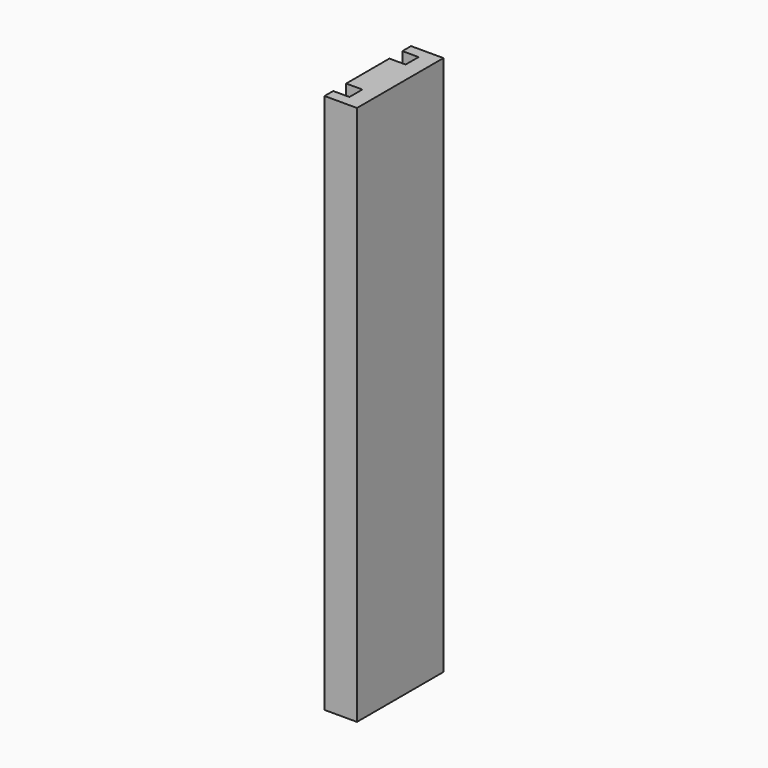
from build123d import *

# Parameters (mm, degrees)
EXTRUDE_DEPTH = 100


with BuildPart() as part:
    # Sketch → Extrude (new body)
    with BuildSketch(Plane.XY):
        Polygon((0, 0), (0, 10), (3, 10), (3, 13), (0, 13), (0, 15), (6, 15), (6, -5), (0, -5), (0, -3), (3, -3), (3, 0), align=None)
    extrude(amount=EXTRUDE_DEPTH)


solid = part.part
